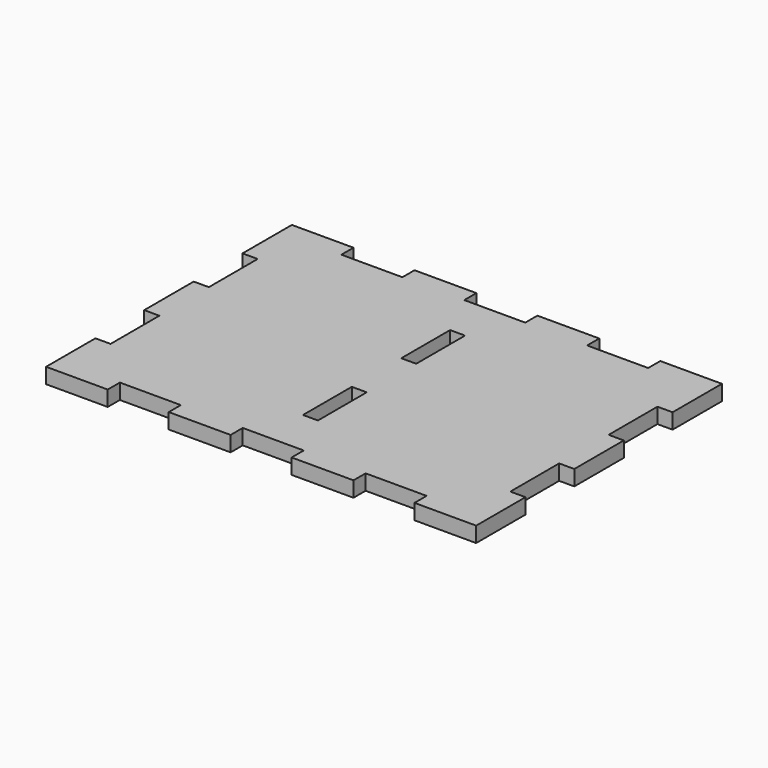
from build123d import *

# Parameters (mm, degrees)
F1_DEPTH = 6.35
F2_W     = 6.1722
F2_H     = 25.2222
F3_DEPTH = 6.351


with BuildPart() as f1:
    # F0 (on Top) → F1 (new body)
    with BuildSketch(Plane.XY):
        Polygon((0, 25.4889), (0, 0), (25.4889, 0), (25.4889, 6.2611), (50.7111, 6.2611), (50.7111, 0), (76.2889, 0), (76.2889, 6.2611), (101.5111, 6.2611), (101.5111, 0), (127.0889, 0), (127.0889, 6.2611), (152.3111, 6.2611), (152.3111, 0), (177.8, 0), (177.8, 25.4889), (171.5389, 25.4889), (171.5389, 50.7111), (177.8, 50.7111), (177.8, 76.2889), (171.5389, 76.2889), (171.5389, 101.5111), (177.8, 101.5111), (177.8, 127), (152.3111, 127), (152.3111, 120.7389), (127.0889, 120.7389), (127.0889, 127), (101.5111, 127), (101.5111, 120.7389), (76.2889, 120.7389), (76.2889, 127), (50.7111, 127), (50.7111, 120.7389), (25.4889, 120.7389), (25.4889, 127), (0, 127), (0, 101.5111), (6.2611, 101.5111), (6.2611, 76.2889), (0, 76.2889), (0, 50.7111), (6.2611, 50.7111), (6.2611, 25.4889), align=None)
    extrude(amount=F1_DEPTH)

    # F2 (on face) → F3 (cut, through all)
    with BuildSketch(Plane.XY.offset(6.35)):
        with Locations((88.9, 88.9)):
            Rectangle(F2_W, F2_H)
        with Locations((88.9, 38.1)):
            Rectangle(F2_W, F2_H)
    extrude(amount=-F3_DEPTH, mode=Mode.SUBTRACT)


solid = f1.part
